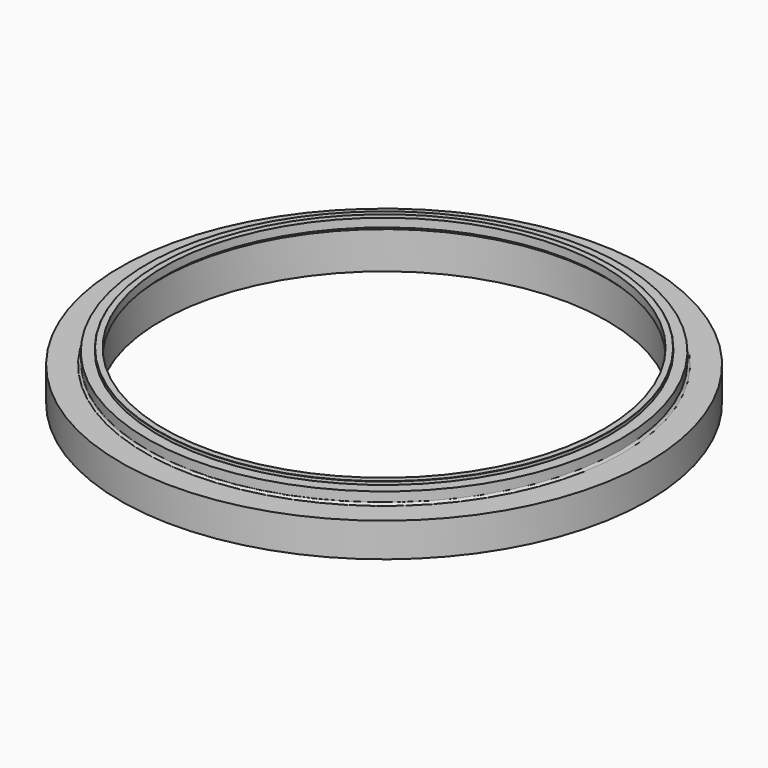
from build123d import *

# Parameters (mm, degrees)
F2_SIZE2 = 0.2
F2_SIZE  = 0.2


with BuildPart() as f1:
    # F0 (on Front) → F1 (revolve)
    with BuildSketch(Plane.XZ):
        with BuildLine():
            Line((210, 35), (210, 0))
            Line((210, 0), (248.5, 0))
            Line((248.5, 0), (248.5, 32))
            Line((248.5, 32), (225, 32))
            ThreePointArc((225, 32), (223.585786, 32.585786), (223, 34))
            Line((223, 34), (223, 43))
            Line((223, 43), (212.7, 43))
            Line((212.7, 43), (212.7, 46))
            Line((212.7, 46), (207, 46))
            Line((207, 46), (207, 38))
            Line((207, 38), (210, 35))
        make_face()
    revolve(axis=Axis((0, 0, -4.341714), (0, 0, -1)))

    # F2
    f2_edges = [f1.edges().sort_by_distance(p)[0] for p in [
        (-212.7, 0, 46),
    ]]
    chamfer(f2_edges, length=F2_SIZE, length2=F2_SIZE2)


solid = f1.part
